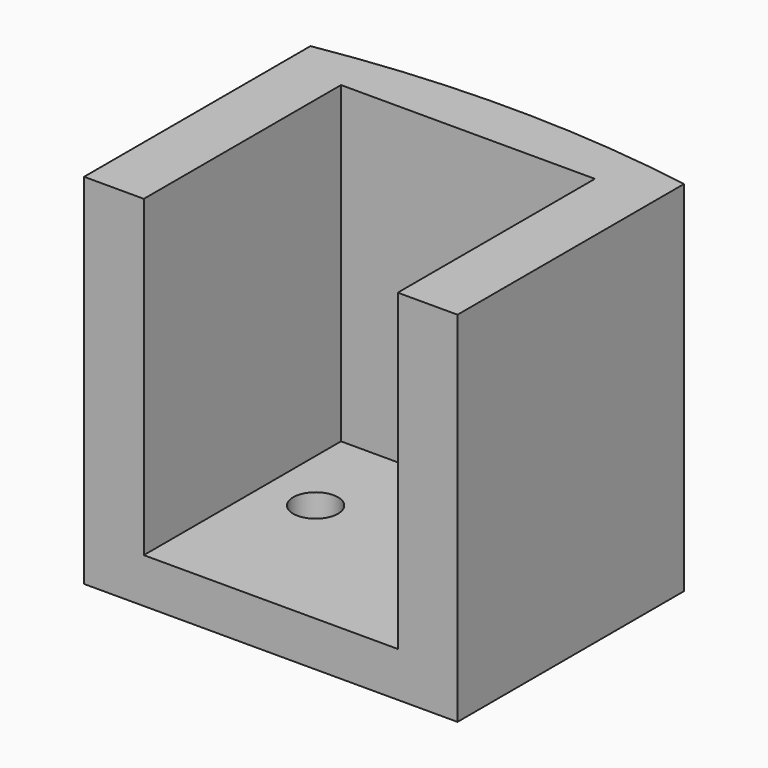
from build123d import *

# Parameters (mm, degrees)
F1_DEPTH = 3
F3_DEPTH = 21
F4_R     = 1.5
F5_DEPTH = 4
F7_DEPTH = 5


with BuildPart() as f1:
    # F0 (on Top) → F1 (new body)
    with BuildSketch(Plane.XY):
        with BuildLine():
            Line((12.5, 54.75), (12.5, 73.697439))
            ThreePointArc((12.5, 73.697439), (0, 74.75), (-12.5, 73.697439))
            Line((-12.5, 73.697439), (-12.5, 54.75))
            Line((-12.5, 54.75), (8.383245, 54.75))
            Line((8.383245, 54.75), (12.5, 54.75))
        make_face()
    extrude(amount=F1_DEPTH)

    # F2 (on face) → F3 (join)
    with BuildSketch(Plane.XY.offset(3)):
        with BuildLine():
            Line((-12.5, 73.697439), (-12.5, 54.75))
            Line((-12.5, 54.75), (-8.5, 54.75))
            Line((-8.5, 54.75), (-8.5, 71.25))
            Line((-8.5, 71.25), (8.5, 71.25))
            Line((8.5, 71.25), (8.5, 54.75))
            Line((8.5, 54.75), (12.5, 54.75))
            Line((12.5, 54.75), (12.5, 73.697439))
            ThreePointArc((12.5, 73.697439), (0, 74.75), (-12.5, 73.697439))
        make_face()
    extrude(amount=F3_DEPTH)

    # F4 (on face) → F5 (cut)
    with BuildSketch(Plane.XY.offset(3)):
        with BuildLine():
            ThreePointArc((6.5, 64.75), (5, 66.25), (3.5, 64.75))
            ThreePointArc((3.5, 64.75), (5, 63.25), (6.5, 64.75))
        make_face()
        with Locations((-5, 64.75)):
            Circle(F4_R)
    extrude(amount=-F5_DEPTH, mode=Mode.SUBTRACT)

    # F6 (on face) → F7 (cut)
    with BuildSketch(Plane.XZ.offset(-71.25)):
        with BuildLine():
            ThreePointArc((1.5, 13), (1.06066, 14.06066), (0, 14.5))
            ThreePointArc((0, 14.5), (-1.06066, 11.93934), (1.5, 13))
        make_face()
    extrude(amount=-F7_DEPTH, mode=Mode.SUBTRACT)


solid = f1.part
